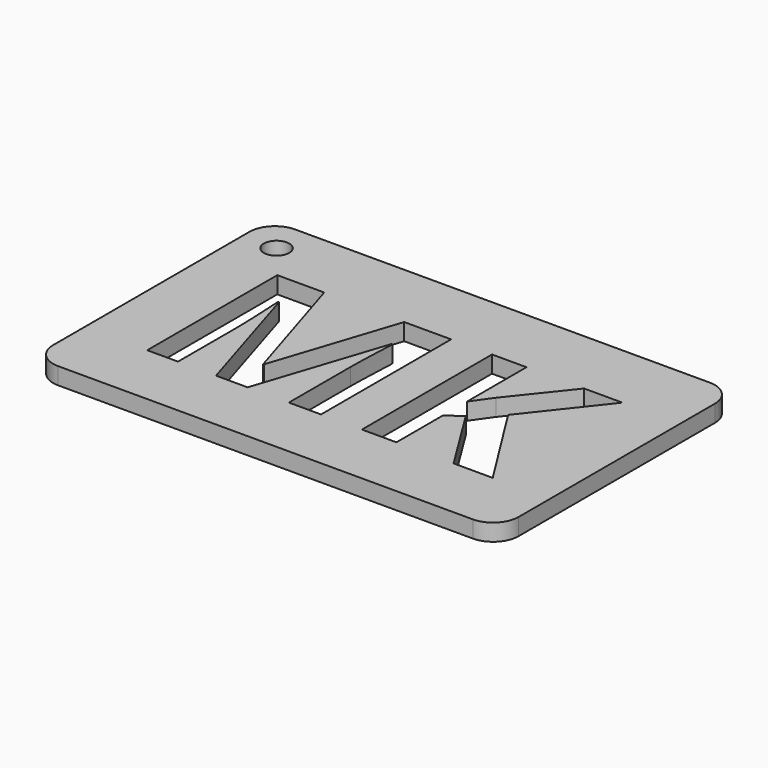
from build123d import *

# Parameters (mm, degrees)
F0_R     = 1.5
F1_DEPTH = 2


with BuildPart() as f1:
    # F0 (on Top) → F1 (new body)
    with BuildSketch(Plane.XY):
        with BuildLine():
            ThreePointArc((0, 3), (0.8786796564, 0.8786796564), (3, 0))
            Line((3, 0), (52, 0))
            ThreePointArc((52, 0), (54.1213203436, 0.8786796564), (55, 3))
            Line((55, 3), (55, 32))
            ThreePointArc((55, 32), (54.1213203436, 34.1213203436), (52, 35))
            Line((52, 35), (3, 35))
            ThreePointArc((3, 35), (0.8786796564, 34.1213203436), (0, 32))
            Line((0, 32), (0, 3))
        make_face()
        with BuildLine():
            Line((19.287783905, 7.6187494158), (15.552855407, 7.6187494158))
            Line((15.552855407, 7.6187494158), (10.9262547902, 22.6930554257))
            Line((10.9262547902, 22.6930554257), (10.8084867745, 22.6930554257))
            add(Edge.make_bspline(
                [(10.8084867745, 22.6930554257), (11.0608468081, 18.0958968128), (11.0608468081, 16.5565006075)],
                knots=[0, 0, 0, 1, 1, 1], degree=2))
            Line((11.0608468081, 16.5565006075), (11.0608468081, 7.6187494158))
            Line((11.0608468081, 7.6187494158), (7.4184503225, 7.6187494158))
            Line((7.4184503225, 7.6187494158), (7.4184503225, 26.8359659781))
            Line((7.4184503225, 26.8359659781), (12.9661650622, 26.8359659781))
            Line((12.9661650622, 26.8359659781), (17.5128516684, 12.1402000187))
            Line((17.5128516684, 12.1402000187), (17.592765679, 12.1402000187))
            Line((17.592765679, 12.1402000187), (22.4170483223, 26.8359659781))
            Line((22.4170483223, 26.8359659781), (27.9605570614, 26.8359659781))
            Line((27.9605570614, 26.8359659781), (27.9605570614, 7.6187494158))
            Line((27.9605570614, 7.6187494158), (24.162538555, 7.6187494158))
            Line((24.162538555, 7.6187494158), (24.162538555, 16.7163286288))
            add(Edge.make_bspline(
                [(24.162538555, 16.7163286288), (24.162538555, 17.3598467146), (24.1835685578, 18.2010468268)],
                knots=[0, 0, 0, 1, 1, 1], degree=2))
            add(Edge.make_bspline(
                [(24.1835685578, 18.2010468268), (24.2045985606, 19.042246939), (24.3602205814, 22.6678194224)],
                knots=[0, 0, 0, 1, 1, 1], degree=2))
            Line((24.3602205814, 22.6678194224), (24.2424525657, 22.6678194224))
            Line((24.2424525657, 22.6678194224), (19.287783905, 7.6187494158))
        make_face(mode=Mode.SUBTRACT)
        Polygon((41.4996728666, 18.3314328442), (48.2545097673, 7.6187494158), (43.6279091504, 7.6187494158), (38.5933264791, 15.7153004954), (36.8730722497, 14.4787363305), (36.8730722497, 7.6187494158), (32.7974577063, 7.6187494158), (32.7974577063, 26.8359659781), (36.8730722497, 26.8359659781), (36.8730722497, 18.0412188055), (38.4755584634, 20.3040471072), (43.6825871577, 26.8359659781), (48.2040377605, 26.8359659781), align=None, mode=Mode.SUBTRACT)
        with Locations((4, 31)):
            Circle(F0_R, mode=Mode.SUBTRACT)
    extrude(amount=F1_DEPTH)


solid = f1.part
